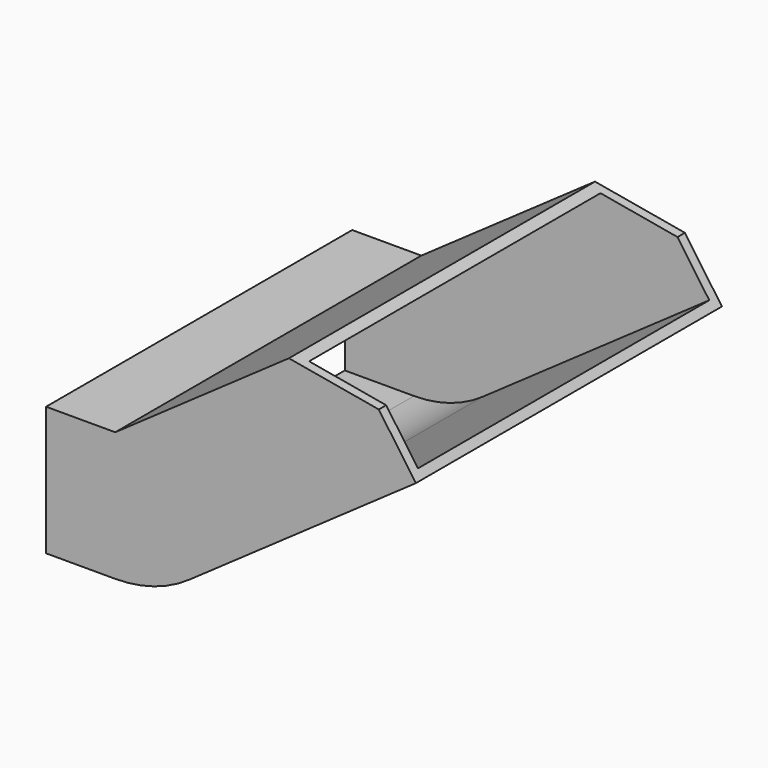
from build123d import *

# Parameters (mm, degrees)
SKETCH019_W             = 83
SKETCH019_H             = 28
SKETCH019_W_2           = 79
SKETCH019_H_2           = 24
REVOLUTION_ANGLE        = 35
SKETCH020_W             = 83
SKETCH020_H             = 28
SKETCH020_W_2           = 79
SKETCH020_H_2           = 24
PAD010_DEPTH            = 60
POCKET006_DEPTH         = 83.001
SKETCH022_W             = 83
SKETCH022_H             = 28
SKETCH022_W_2           = 79
SKETCH022_H_2           = 24
PAD011_DEPTH            = 15
BODY005_PLACEMENT_ANGLE = 180


with BuildPart() as part:
    # Sketch019 → Revolution (revolve)
    with BuildSketch(Plane(origin=(310, 156, 1), x_dir=(0, 1, 0), z_dir=(1, 0, 0))):
        with Locations((41.5, 14)):
            Rectangle(SKETCH019_W, SKETCH019_H)
        with Locations((41.5, 14)):
            Rectangle(SKETCH019_W_2, SKETCH019_H_2, mode=Mode.SUBTRACT)
    revolve(axis=Axis((310, 156, 1), (0, 1, 0)), revolution_arc=REVOLUTION_ANGLE)

    # Sketch020 (on Face9 of Revolution) → Pad010 (new body)
    with BuildSketch(Plane(origin=(207.543276, 0, -145.323366), x_dir=(0, 1, 0), z_dir=(0.819152, 0, -0.573576))):
        with Locations((197.5, 192.627847)):
            Rectangle(SKETCH020_W, SKETCH020_H)
        with Locations((197.5, 192.627847)):
            Rectangle(SKETCH020_W_2, SKETCH020_H_2, mode=Mode.SUBTRACT)
    extrude(amount=PAD010_DEPTH)

    # Sketch021 (on Face11 of Pad010) → Pocket006 (cut, through all)
    with BuildSketch(Plane(origin=(0, 156, 0), x_dir=(0, 0, -1), z_dir=(0, -1, 0))):
        Polygon((21.946458, 367.179193), (33.414586, 359.149123), (25.384516, 347.680994), align=None)
    extrude(amount=-POCKET006_DEPTH, mode=Mode.SUBTRACT)

    # Sketch022 (on Face4 of Pocket006) → Pad011 (join)
    with BuildSketch(Plane(origin=(310, 0, 0), x_dir=(0, 1, 0), z_dir=(-1, 0, 0))):
        with Locations((197.5, -15)):
            Rectangle(SKETCH022_W, SKETCH022_H)
        with Locations((197.5, -15)):
            Rectangle(SKETCH022_W_2, SKETCH022_H_2, mode=Mode.SUBTRACT)
    extrude(amount=PAD011_DEPTH)


with BuildPart() as part_1:
    # Body005 placement: moved
    add(part.part.moved(Location((0, 395, 30))).rotate(Axis((0, 395, 30), (1, 0, 0)), BODY005_PLACEMENT_ANGLE))


solid = part_1.part
